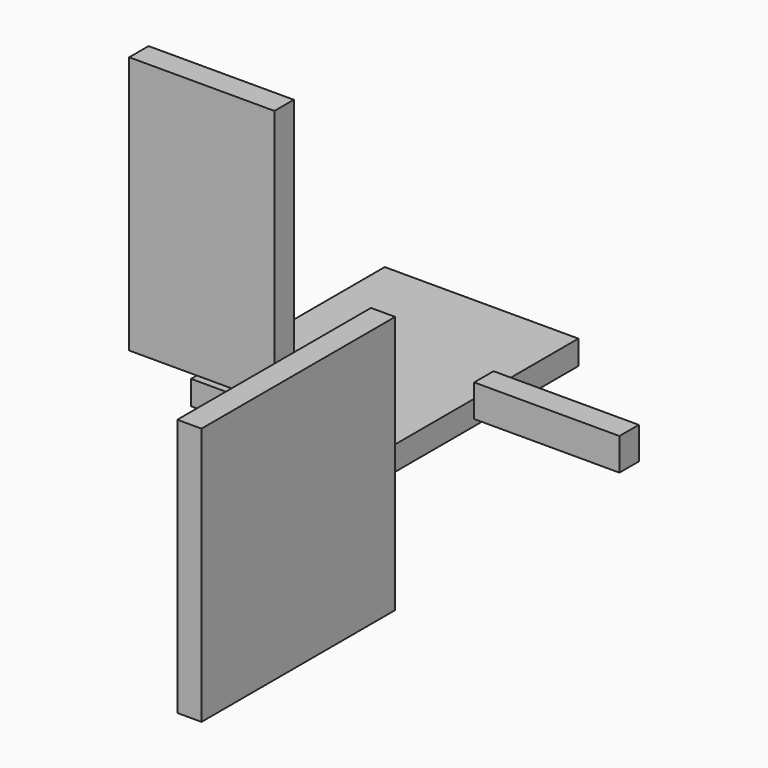
from build123d import *

# Parameters (mm, degrees)
F0_W     = 152.4
F0_H     = 190.5
F1_DEPTH = 19.05
F2_W     = 114.3
F2_H     = 203.2
F3_DEPTH = 19.05
F4_W     = 190.5
F4_H     = 203.2
F5_DEPTH = 19.05
F6_W     = 114.3
F6_H     = 25.4
F7_DEPTH = 19.05


with BuildPart() as f1:
    # F0 (on Top) → F1 (new body)
    with BuildSketch(Plane.XY):
        with Locations((-76.2, 95.25)):
            Rectangle(F0_W, F0_H)
    extrude(amount=F1_DEPTH)


with BuildPart() as f3:
    # F2 (on Front) → F3 (new body)
    with BuildSketch(Plane.XZ):
        with Locations((-128.716405, 137.102477)):
            Rectangle(F2_W, F2_H)
    extrude(amount=F3_DEPTH)


with BuildPart() as f5:
    # F4 (on Right) → F5 (new body)
    with BuildSketch(Plane.YZ):
        with Locations((-108.820379, 21.65452)):
            Rectangle(F4_W, F4_H)
    extrude(amount=F5_DEPTH)


with BuildPart() as f7:
    # F6 (on Front) → F7 (new body)
    with BuildSketch(Plane.XZ):
        with Locations((142.786687, 89.048289)):
            Rectangle(F6_W, F6_H)
    extrude(amount=F7_DEPTH)


solid = Compound([f1.part, f3.part, f5.part, f7.part])
